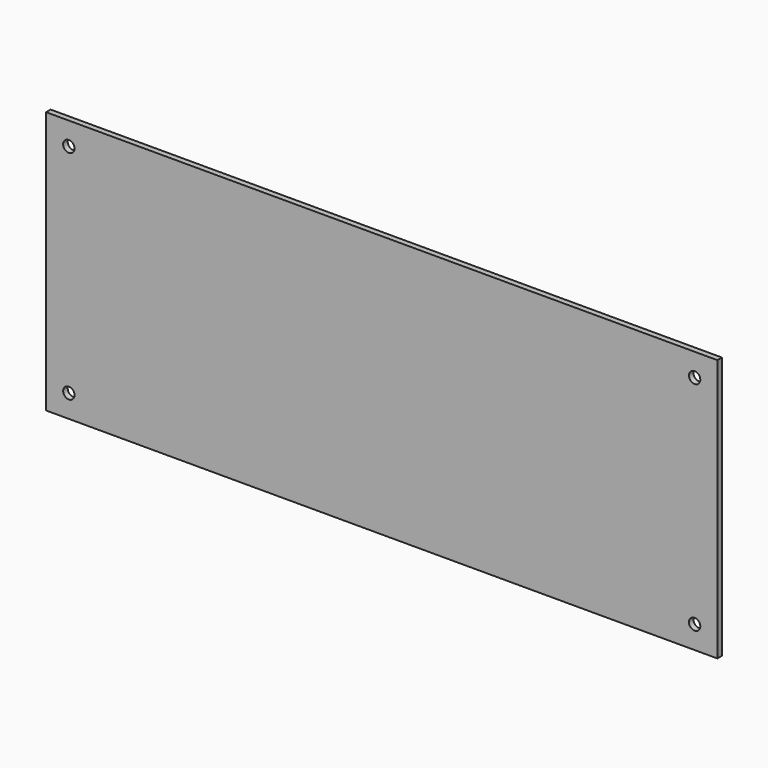
from build123d import *

# Parameters (mm, degrees)
F0_W     = 354
F0_H     = 138.5
F1_DEPTH = 1.5
F2_R     = 3
F3_DEPTH = 12.5


with BuildPart() as f1:
    # F0 (on Front) → F1 (new body, symmetric)
    with BuildSketch(Plane.XZ):
        Rectangle(F0_W, F0_H)
    extrude(amount=F1_DEPTH, both=True)

    # F2 (on Front) → F3 (cut, symmetric)
    with BuildSketch(Plane.XZ):
        with Locations((-165, 57.25)):
            Circle(F2_R)
        with Locations((-165, -57.25)):
            Circle(F2_R)
        with Locations((165, 57.25)):
            Circle(F2_R)
        with Locations((165, -57.25)):
            Circle(F2_R)
    extrude(amount=F3_DEPTH, both=True, mode=Mode.SUBTRACT)


solid = f1.part
